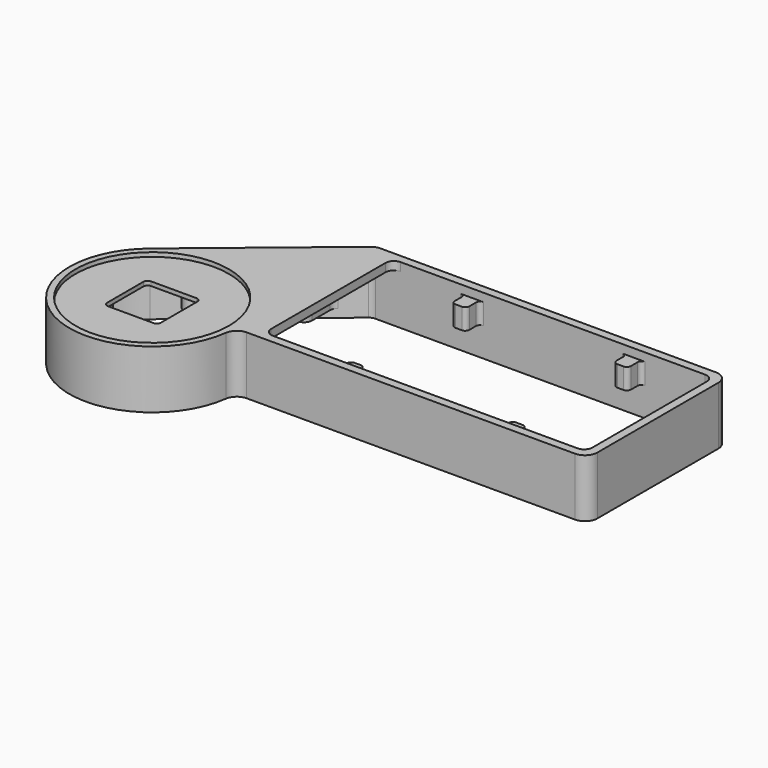
from build123d import *

# Parameters (mm, degrees)
PAD_DEPTH       = 14
POCKET_DEPTH    = 12
SKETCH020_W     = 77.5
SKETCH020_H     = 38.5
POCKET010_DEPTH = 2
SKETCH021_W     = 3.5
SKETCH021_H     = 5
PAD004_DEPTH    = 4
SKETCH022_W     = 3.5
SKETCH022_H     = 5
PAD005_DEPTH    = 4
SKETCH023_W     = 3.5
SKETCH023_H     = 5
PAD006_DEPTH    = 4
SKETCH024_R     = 2
PAD007_DEPTH    = 5
PAD008_DEPTH    = 5
PAD009_DEPTH    = 10
SKETCH027_W     = 13
SKETCH027_H     = 13
POCKET011_DEPTH = 2
SKETCH028_R     = 0.7
HOLE_DEPTH      = 3.579398
HOLE_TIPS_R     = 0.7
SKETCH029_R     = 0.7
HOLE001_DEPTH   = 3.579398
HOLE001_TIPS_R  = 0.7
SKETCH030_R     = 18.5
POCKET012_DEPTH = 1
FILLET_R        = 3
FILLET001_R     = 2
FILLET002_R     = 1
FILLET003_R     = 2
FILLET004_R     = 1
FILLET005_R     = 1


with BuildPart() as part:
    # Sketch → Pad (new body)
    with BuildSketch(Plane.XY):
        with BuildLine():
            Line((0, 0), (0, 42.5))
            Line((0, 42.5), (-85, 42.5))
            Line((-85, 42.5), (-117.747865, 15.410813))
            ThreePointArc((-117.747865, 15.410813), (-113.515965, -18.096324), (-85, 0))
            Line((0, 0), (-85, 0))
        make_face()
    extrude(amount=PAD_DEPTH)

    # Sketch019 (on Face6 of Pad) → Pocket (cut)
    with BuildSketch(Plane(origin=(0, 0, 0), x_dir=(1, 0, 0), z_dir=(0, 0, -1))):
        with BuildLine():
            Line((-116.570177, -13.7888), (-84.28, -40.5))
            Line((-84.28, -40.5), (-2, -40.5))
            Line((-2, -40.5), (-2, -2))
            Line((-2, -2), (-87, -2))
            Line((-87, -2), (-87, 0))
            ThreePointArc((-87, 0), (-112.607129, 16.31354), (-116.570177, -13.7888))
        make_face()
    extrude(amount=-POCKET_DEPTH, mode=Mode.SUBTRACT)

    # Sketch020 (on Face5 of Pocket) → Pocket010 (cut)
    with BuildSketch(Plane.XY.offset(14)):
        with Locations((-40.75, 21.25)):
            Rectangle(SKETCH020_W, SKETCH020_H)
    extrude(amount=-POCKET010_DEPTH, mode=Mode.SUBTRACT)

    # Sketch021 (on Face12 of Pocket010) → Pad004 (join)
    with BuildSketch(Plane.XZ.offset(-40.5)):
        with Locations((-21.25, 9.5)):
            Rectangle(SKETCH021_W, SKETCH021_H)
        with Locations((-60.25, 9.5)):
            Rectangle(SKETCH021_W, SKETCH021_H)
    extrude(amount=PAD004_DEPTH)

    # Sketch022 (on Face10 of Pad004) → Pad005 (join)
    with BuildSketch(Plane(origin=(0, 2, 0), x_dir=(-1, 0, 0), z_dir=(0, 1, 0))):
        with Locations((21.25, 9.5)):
            Rectangle(SKETCH022_W, SKETCH022_H)
        with Locations((60.25, 9.5)):
            Rectangle(SKETCH022_W, SKETCH022_H)
        with Locations((40.75, 4.5)):
            Rectangle(SKETCH022_W, SKETCH022_H)
    extrude(amount=PAD005_DEPTH)

    # Sketch023 (on Face11 of Pad005) → Pad006 (join)
    with BuildSketch(Plane(origin=(-2, 0, 0), x_dir=(0, -1, 0), z_dir=(-1, 0, 0))):
        with Locations((-21.25, 4.5)):
            Rectangle(SKETCH023_W, SKETCH023_H)
    extrude(amount=PAD006_DEPTH)

    # Sketch024 (on Face18 of Pad006) → Pad007 (join)
    with BuildSketch(Plane(origin=(0, 0, 12), x_dir=(1, 0, 0), z_dir=(0, 0, -1))):
        with Locations((-93, 0)):
            Circle(SKETCH024_R)
        with Locations((-117, 0)):
            Circle(SKETCH024_R)
        with Locations((-105, -12)):
            Circle(SKETCH024_R)
        with BuildLine():
            ThreePointArc((-88.636932, 7.5), (-105, 18), (-121.363068, 7.5))
            Line((-121.363068, 7.5), (-88.636932, 7.5))
        make_face()
    extrude(amount=PAD007_DEPTH)

    # Sketch025 (on Face20 of Pad007) → Pad008 (join)
    with BuildSketch(Plane(origin=(0, 0, 7), x_dir=(1, 0, 0), z_dir=(0, 0, -1))):
        with BuildLine():
            ThreePointArc((-92.5501, 13), (-105, 18), (-117.4499, 13))
            Line((-117.4499, 13), (-92.5501, 13))
        make_face()
    extrude(amount=PAD008_DEPTH)

    # Sketch026 (on Face18 of Pad008) → Pad009 (join)
    with BuildSketch(Plane(origin=(0, 0, 12), x_dir=(1, 0, 0), z_dir=(0, 0, -1))):
        Polygon((-100, -27.5), (-90, -27.5), (-90, -35.77), align=None)
    extrude(amount=PAD009_DEPTH)

    # Sketch027 (on Face18 of Pad009) → Pocket011 (cut)
    with BuildSketch(Plane(origin=(0, 0, 12), x_dir=(1, 0, 0), z_dir=(0, 0, -1))):
        with Locations((-105, 0)):
            Rectangle(SKETCH027_W, SKETCH027_H)
    extrude(amount=-POCKET011_DEPTH, mode=Mode.SUBTRACT)

    # Sketch028 (on Face42 of Pocket011) → Hole (cut)
    with BuildSketch(Plane(origin=(0, 0, 7), x_dir=(1, 0, 0), z_dir=(0, 0, -1))):
        with Locations((-60.25, -4)):
            Circle(SKETCH028_R)
        with Locations((-21.25, -4)):
            Circle(SKETCH028_R)
        with Locations((-21.25, -38.5)):
            Circle(SKETCH028_R)
        with Locations((-60.25, -38.5)):
            Circle(SKETCH028_R)
        with Locations((-105, -12)):
            Circle(SKETCH028_R)
        with Locations((-93, 0)):
            Circle(SKETCH028_R)
        with Locations((-117, 0)):
            Circle(SKETCH028_R)
        with Locations((-105, 10)):
            Circle(SKETCH028_R)
    extrude(amount=-HOLE_DEPTH, mode=Mode.SUBTRACT)

    # Hole tips → Hole tip 1 section 0
    with BuildSketch(Plane(origin=(0, 0, 10.579398), x_dir=(1, 0, 0), z_dir=(0, 0, -1)), mode=Mode.PRIVATE) as hole_tip_1_s0:
        with Locations((-60.25, -4)):
            Circle(HOLE_TIPS_R)
    loft([hole_tip_1_s0.sketch, Vertex(-60.25, 4, 11)], mode=Mode.SUBTRACT)

    # Hole tips → Hole tip 2 section 0
    with BuildSketch(Plane(origin=(0, 0, 10.579398), x_dir=(1, 0, 0), z_dir=(0, 0, -1)), mode=Mode.PRIVATE) as hole_tip_2_s0:
        with Locations((-21.25, -4)):
            Circle(HOLE_TIPS_R)
    loft([hole_tip_2_s0.sketch, Vertex(-21.25, 4, 11)], mode=Mode.SUBTRACT)

    # Hole tips → Hole tip 3 section 0
    with BuildSketch(Plane(origin=(0, 0, 10.579398), x_dir=(1, 0, 0), z_dir=(0, 0, -1)), mode=Mode.PRIVATE) as hole_tip_3_s0:
        with Locations((-21.25, -38.5)):
            Circle(HOLE_TIPS_R)
    loft([hole_tip_3_s0.sketch, Vertex(-21.25, 38.5, 11)], mode=Mode.SUBTRACT)

    # Hole tips → Hole tip 4 section 0
    with BuildSketch(Plane(origin=(0, 0, 10.579398), x_dir=(1, 0, 0), z_dir=(0, 0, -1)), mode=Mode.PRIVATE) as hole_tip_4_s0:
        with Locations((-60.25, -38.5)):
            Circle(HOLE_TIPS_R)
    loft([hole_tip_4_s0.sketch, Vertex(-60.25, 38.5, 11)], mode=Mode.SUBTRACT)

    # Hole tips → Hole tip 5 section 0
    with BuildSketch(Plane(origin=(0, 0, 10.579398), x_dir=(1, 0, 0), z_dir=(0, 0, -1)), mode=Mode.PRIVATE) as hole_tip_5_s0:
        with Locations((-105, -12)):
            Circle(HOLE_TIPS_R)
    loft([hole_tip_5_s0.sketch, Vertex(-105, 12, 11)], mode=Mode.SUBTRACT)

    # Hole tips → Hole tip 6 section 0
    with BuildSketch(Plane(origin=(0, 0, 10.579398), x_dir=(1, 0, 0), z_dir=(0, 0, -1)), mode=Mode.PRIVATE) as hole_tip_6_s0:
        with Locations((-93, 0)):
            Circle(HOLE_TIPS_R)
    loft([hole_tip_6_s0.sketch, Vertex(-93, 0, 11)], mode=Mode.SUBTRACT)

    # Hole tips → Hole tip 7 section 0
    with BuildSketch(Plane(origin=(0, 0, 10.579398), x_dir=(1, 0, 0), z_dir=(0, 0, -1)), mode=Mode.PRIVATE) as hole_tip_7_s0:
        with Locations((-117, 0)):
            Circle(HOLE_TIPS_R)
    loft([hole_tip_7_s0.sketch, Vertex(-117, 0, 11)], mode=Mode.SUBTRACT)

    # Hole tips → Hole tip 8 section 0
    with BuildSketch(Plane(origin=(0, 0, 10.579398), x_dir=(1, 0, 0), z_dir=(0, 0, -1)), mode=Mode.PRIVATE) as hole_tip_8_s0:
        with Locations((-105, 10)):
            Circle(HOLE_TIPS_R)
    loft([hole_tip_8_s0.sketch, Vertex(-105, -10, 11)], mode=Mode.SUBTRACT)

    # Sketch029 (on Face48 of Hole) → Hole001 (cut)
    with BuildSketch(Plane(origin=(0, 0, 2), x_dir=(1, 0, 0), z_dir=(0, 0, -1))):
        with Locations((-105, 15)):
            Circle(SKETCH029_R)
        with Locations((-93, -30)):
            Circle(SKETCH029_R)
        with Locations((-40.75, -4)):
            Circle(SKETCH029_R)
        with Locations((-4, -21.25)):
            Circle(SKETCH029_R)
    extrude(amount=-HOLE001_DEPTH, mode=Mode.SUBTRACT)

    # Hole001 tips → Hole001 tip 1 section 0
    with BuildSketch(Plane(origin=(0, 0, 5.579398), x_dir=(1, 0, 0), z_dir=(0, 0, -1)), mode=Mode.PRIVATE) as hole001_tip_1_s0:
        with Locations((-105, 15)):
            Circle(HOLE001_TIPS_R)
    loft([hole001_tip_1_s0.sketch, Vertex(-105, -15, 6)], mode=Mode.SUBTRACT)

    # Hole001 tips → Hole001 tip 2 section 0
    with BuildSketch(Plane(origin=(0, 0, 5.579398), x_dir=(1, 0, 0), z_dir=(0, 0, -1)), mode=Mode.PRIVATE) as hole001_tip_2_s0:
        with Locations((-93, -30)):
            Circle(HOLE001_TIPS_R)
    loft([hole001_tip_2_s0.sketch, Vertex(-93, 30, 6)], mode=Mode.SUBTRACT)

    # Hole001 tips → Hole001 tip 3 section 0
    with BuildSketch(Plane(origin=(0, 0, 5.579398), x_dir=(1, 0, 0), z_dir=(0, 0, -1)), mode=Mode.PRIVATE) as hole001_tip_3_s0:
        with Locations((-40.75, -4)):
            Circle(HOLE001_TIPS_R)
    loft([hole001_tip_3_s0.sketch, Vertex(-40.75, 4, 6)], mode=Mode.SUBTRACT)

    # Hole001 tips → Hole001 tip 4 section 0
    with BuildSketch(Plane(origin=(0, 0, 5.579398), x_dir=(1, 0, 0), z_dir=(0, 0, -1)), mode=Mode.PRIVATE) as hole001_tip_4_s0:
        with Locations((-4, -21.25)):
            Circle(HOLE001_TIPS_R)
    loft([hole001_tip_4_s0.sketch, Vertex(-4, 21.25, 6)], mode=Mode.SUBTRACT)

    # Sketch030 (on Face5 of Hole001) → Pocket012 (cut)
    with BuildSketch(Plane.XY.offset(14)):
        with Locations((-105, 0)):
            Circle(SKETCH030_R)
    extrude(amount=-POCKET012_DEPTH, mode=Mode.SUBTRACT)

    # Fillet
    fillet_edges = [part.edges().sort_by_distance(p)[0] for p in [
        (0, 0, 7),
        (0, 42.5, 7),
        (-85, 42.5, 7),
        (-85, 0, 7),
    ]]
    fillet(fillet_edges, radius=FILLET_R)

    # Fillet001
    fillet001_edges = [part.edges().sort_by_distance(p)[0] for p in [
        (-2, 40.5, 13),
        (-2, 2, 13),
        (-79.5, 40.5, 13),
        (-79.5, 2, 13),
    ]]
    fillet(fillet001_edges, radius=FILLET001_R)

    # Fillet002
    fillet002_edges = [part.edges().sort_by_distance(p)[0] for p in [
        (-62, 2, 9.5),
        (-62, 6, 9.5),
        (-58.5, 6, 9.5),
        (-58.5, 2, 9.5),
        (-42.5, 2, 4.5),
        (-42.5, 6, 4.5),
        (-39, 6, 4.5),
        (-39, 2, 4.5),
        (-23, 6, 9.5),
        (-19.5, 6, 9.5),
        (-19.5, 2, 9.5),
        (-23, 2, 9.5),
        (-19.5, 40.5, 9.5),
        (-19.5, 36.5, 9.5),
        (-23, 36.5, 9.5),
        (-62, 36.5, 9.5),
        (-58.5, 36.5, 9.5),
        (-58.5, 40.5, 9.5),
        (-62, 40.5, 9.5),
        (-23, 40.5, 9.5),
        (-6, 19.5, 4.5),
        (-6, 23, 4.5),
        (-2, 19.5, 4.5),
        (-2, 23, 4.5),
    ]]
    fillet(fillet002_edges, radius=FILLET002_R)

    # Fillet003
    fillet003_edges = [part.edges().sort_by_distance(p)[0] for p in [
        (-88.636932, -7.5, 9.5),
        (-121.363068, -7.5, 9.5),
        (-92.5501, -13, 4.5),
        (-117.4499, -13, 4.5),
        (-84.28, 40.5, 6),
        (-99.995217, 27.5, 7),
        (-90, 35.76828, 7),
        (-90, 27.5, 7),
    ]]
    fillet(fillet003_edges, radius=FILLET003_R)

    # Fillet004
    fillet004_edges = [part.edges().sort_by_distance(p)[0] for p in [
        (-111.5, 6.5, 12.5),
        (-98.5, -6.5, 12.5),
        (-111.5, -6.5, 12.5),
        (-98.5, 6.5, 12.5),
    ]]
    fillet(fillet004_edges, radius=FILLET004_R)

    # Fillet005
    fillet005_edges = [part.edges().sort_by_distance(p)[0] for p in [
        (-119, 0, 12),
        (-107, 12, 12),
        (-95, 0, 12),
    ]]
    fillet(fillet005_edges, radius=FILLET005_R)


solid = part.part
